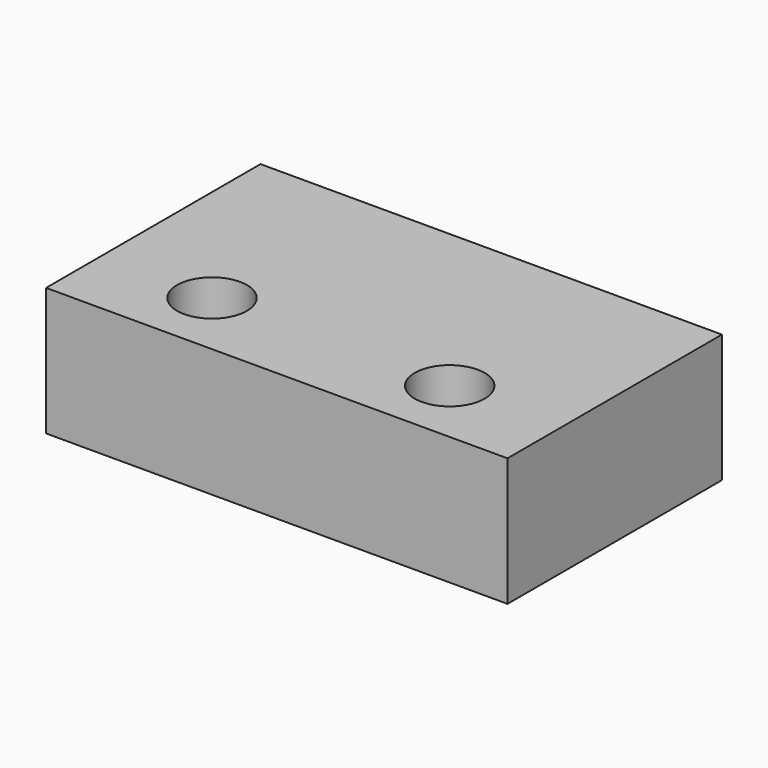
from build123d import *

# Parameters (mm, degrees)
SKETCH_W  = 19.8
SKETCH_H  = 11.5
SKETCH_R  = 1.5
PAD_DEPTH = 5.5


with BuildPart() as part:
    # Sketch → Pad (new body)
    with BuildSketch(Plane.XY):
        with Locations((9.9, 5.75)):
            Rectangle(SKETCH_W, SKETCH_H)
        with Locations((4.8, 2.9)):
            Circle(SKETCH_R, mode=Mode.SUBTRACT)
        with Locations((15, 2.9)):
            Circle(SKETCH_R, mode=Mode.SUBTRACT)
    extrude(amount=PAD_DEPTH)


solid = part.part
